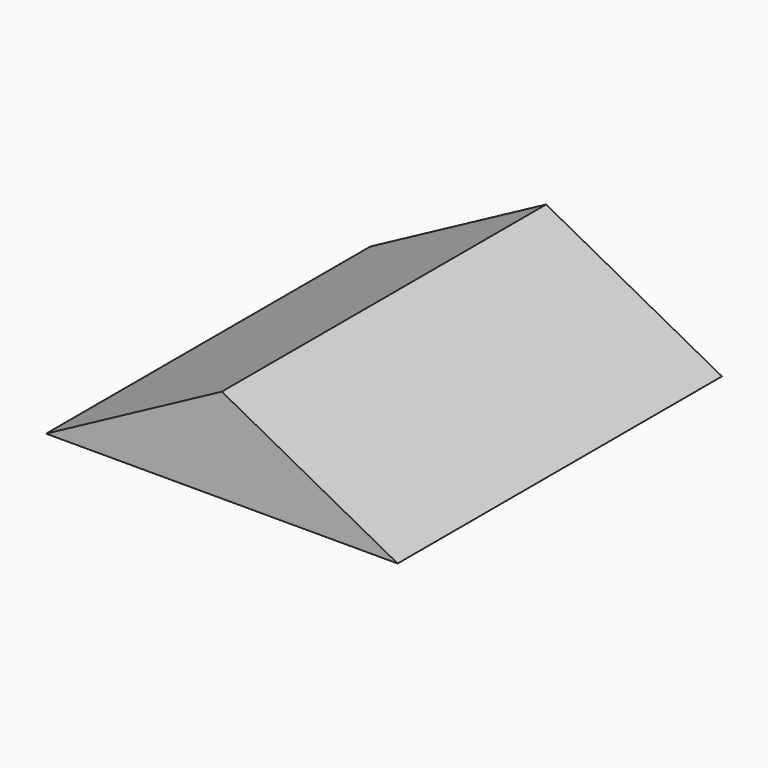
from build123d import *

# Parameters (mm, degrees)
F1_DEPTH = 25.4
F2_DEPTH = 25.4
F3_DEPTH = 76.2


with BuildPart() as f1:
    # F0 (on Front) → F1 (new body)
    with BuildSketch(Plane.XZ):
        Polygon((-10.2298520505, 29.5050740242), (-65.3136447072, 0), (-10.2298520505, 0), align=None)
        Polygon((-10.2298520505, 29.5050740242), (-10.2298520505, 0), (44.8539443314, 0), align=None)
    extrude(amount=F1_DEPTH)

    # F2 (add): a face of the model
    f2_faces = [f1.faces().sort_by_distance(p)[0] for p in [
        (-10.2298508088, -25.4, 9.8350246747),
    ]]
    extrude(f2_faces, amount=F2_DEPTH)

    # F3 (add): a face of the model
    f3_faces = [f1.faces().sort_by_distance(p)[0] for p in [
        (-10.2298508088, -50.8, 9.8350246747),
    ]]
    extrude(f3_faces, amount=F3_DEPTH)


solid = f1.part
